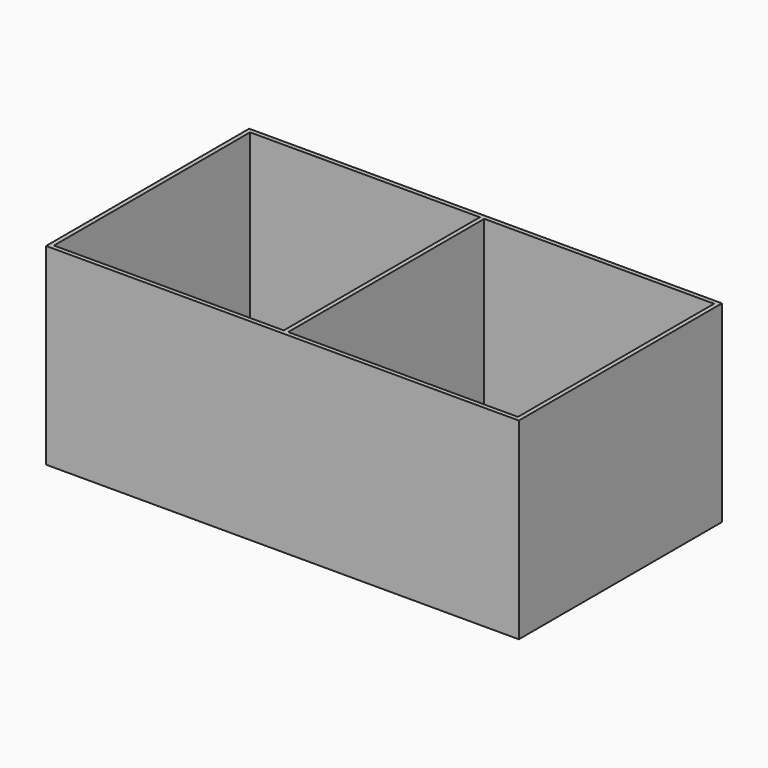
from build123d import *

# Parameters (mm, degrees)
SKETCH_W     = 108
SKETCH_H     = 58
PAD_DEPTH    = 44
SKETCH001_W  = 52.5
SKETCH001_H  = 56
POCKET_DEPTH = 43


with BuildPart() as part:
    # Sketch → Pad (new body)
    with BuildSketch(Plane.XY):
        Rectangle(SKETCH_W, SKETCH_H)
    extrude(amount=PAD_DEPTH)

    # Sketch001 (on Face6 of Pad) → Pocket (cut)
    with BuildSketch(Plane.XY.offset(44)):
        with Locations((-26.75, 0)):
            Rectangle(SKETCH001_W, SKETCH001_H)
        with Locations((26.75, 0)):
            Rectangle(SKETCH001_W, SKETCH001_H)
    extrude(amount=-POCKET_DEPTH, mode=Mode.SUBTRACT)


solid = part.part
